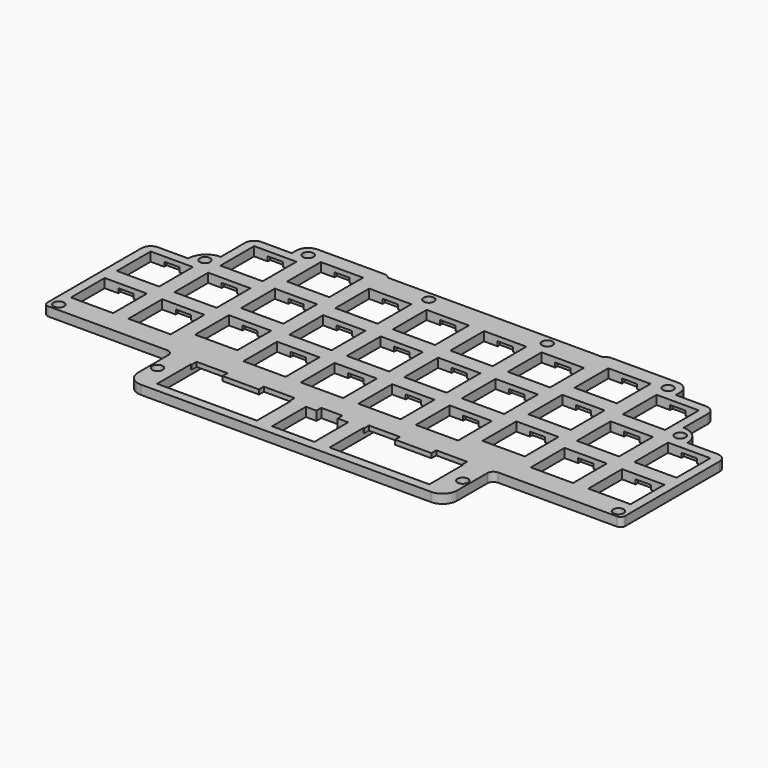
from build123d import *

# Parameters (mm, degrees)
PAD_DEPTH        = 3
SKETCH001_W      = 14
SKETCH001_H      = 14
SKETCH001_W_2    = 7.5
SKETCH001_H_2    = 16
POCKET_DEPTH     = 5
SKETCH003_W      = 5
SKETCH003_H      = 16
SKETCH003_W_2    = 33.05
SKETCH003_H_2    = 22
POCKET001_DEPTH  = 1.5
PAD006_DEPTH     = 3
SHAPEBINDER011_W = 14
SHAPEBINDER011_H = 14
POCKET019_DEPTH  = 5
POCKET020_DEPTH  = 1.5
SKETCH006_R      = 1.75
POCKET021_DEPTH  = 5


with BuildPart() as part:
    # Sketch007 → Pad (new body)
    with BuildSketch(Plane.XY):
        with BuildLine():
            Line((-52.875, -5.2), (-52.875, 11.8125))
            ThreePointArc((-52.875, 11.8125), (-53.460786, 13.226714), (-54.875, 13.8125))
            Line((-54.875, 13.8125), (-88.725, 13.8125))
            ThreePointArc((-88.725, 13.8125), (-89.432107, 13.519607), (-89.725, 12.8125))
            Line((-89.725, 12.8125), (-89.725, 10.8125))
            ThreePointArc((-91.225, 9.3125), (-90.16434, 9.75184), (-89.725, 10.8125))
            Line((-91.225, 9.3125), (-94.225, 9.3125))
            ThreePointArc((-95.725, 10.8125), (-95.28566, 9.75184), (-94.225, 9.3125))
            Line((-95.725, 10.8125), (-95.725, 49.8625))
            ThreePointArc((-92.725, 52.8625), (-94.84632, 51.98382), (-95.725, 49.8625))
            Line((-92.725, 52.8625), (-82.675, 52.8625))
            ThreePointArc((-76.675, 58.8625), (-80.917641, 57.105141), (-82.675, 52.8625))
            Line((-76.675, 58.8625), (-76.675, 68.9125))
            ThreePointArc((-73.675, 71.9125), (-75.79632, 71.03382), (-76.675, 68.9125))
            Line((-73.675, 71.9125), (-63.625, 71.9125))
            Line((-63.625, 73.7225), (-63.625, 71.9125))
            ThreePointArc((-59.625, 77.7225), (-62.453427, 76.550927), (-63.625, 73.7225))
            Line((-59.625, 77.7225), (-37.625, 77.7225))
            ThreePointArc((-35.625, 75.7225), (-36.210786, 77.136714), (-37.625, 77.7225))
            ThreePointArc((-35.625, 75.7225), (-35.039214, 74.308286), (-33.625, 73.7225))
            Line((-33.625, 73.7225), (-24.125, 73.7225))
            Line((-24.125, 73.7225), (-21.125, 76.7225))
            Line((-21.125, 76.7225), (-18.125, 76.7225))
            Line((-18.125, 76.7225), (-15.125, 73.7225))
            Line((-15.125, 73.7225), (15.125, 73.7225))
            Line((15.125, 73.7225), (18.125, 76.7225))
            Line((18.125, 76.7225), (21.125, 76.7225))
            Line((21.125, 76.7225), (24.125, 73.7225))
            Line((24.125, 73.7225), (33.625, 73.7225))
            ThreePointArc((33.625, 73.7225), (35.039214, 74.308286), (35.625, 75.7225))
            ThreePointArc((37.625, 77.7225), (36.210786, 77.136714), (35.625, 75.7225))
            Line((37.625, 77.7225), (59.625, 77.7225))
            ThreePointArc((63.625, 73.7225), (62.453427, 76.550927), (59.625, 77.7225))
            Line((63.625, 73.7225), (63.625, 71.9125))
            Line((63.625, 71.9125), (73.675, 71.9125))
            ThreePointArc((76.675, 68.9125), (75.79632, 71.03382), (73.675, 71.9125))
            Line((76.675, 68.9125), (76.675, 58.8625))
            ThreePointArc((82.675, 52.8625), (80.917641, 57.105141), (76.675, 58.8625))
            Line((82.675, 52.8625), (92.725, 52.8625))
            ThreePointArc((95.725, 49.8625), (94.84632, 51.98382), (92.725, 52.8625))
            Line((95.725, 49.8625), (95.725, 10.8125))
            ThreePointArc((94.225, 9.3125), (95.28566, 9.75184), (95.725, 10.8125))
            Line((94.225, 9.3125), (91.225, 9.3125))
            ThreePointArc((89.725, 10.8125), (90.16434, 9.75184), (91.225, 9.3125))
            Line((89.725, 10.8125), (89.725, 12.8125))
            ThreePointArc((89.725, 12.8125), (89.432107, 13.519607), (88.725, 13.8125))
            Line((88.725, 13.8125), (54.875, 13.8125))
            ThreePointArc((54.875, 13.8125), (53.460786, 13.226714), (52.875, 11.8125))
            Line((52.875, 11.8125), (52.875, -5.2))
            ThreePointArc((48.075, -10), (51.469113, -8.594113), (52.875, -5.2))
            Line((48.075, -10), (-48.075, -10))
            ThreePointArc((-52.875, -5.2), (-51.469113, -8.594113), (-48.075, -10))
        make_face()
    extrude(amount=PAD_DEPTH)

    # Sketch001 → Pocket (cut)
    with BuildSketch(Plane.XY):
        with Locations((-85.725, 42.8625)):
            Rectangle(SKETCH001_W, SKETCH001_H)
        with Locations((-85.725, 23.8125)):
            Rectangle(SKETCH001_W, SKETCH001_H)
        with Locations((-66.675, 23.8125)):
            Rectangle(SKETCH001_W, SKETCH001_H)
        with Locations((-66.675, 42.8625)):
            Rectangle(SKETCH001_W, SKETCH001_H)
        with Locations((-66.675, 61.9125)):
            Rectangle(SKETCH001_W, SKETCH001_H)
        with Locations((-47.625, 65.7225)):
            Rectangle(SKETCH001_W, SKETCH001_H)
        with Locations((-47.625, 46.6725)):
            Rectangle(SKETCH001_W, SKETCH001_H)
        with Locations((-47.625, 27.6225)):
            Rectangle(SKETCH001_W, SKETCH001_H)
        with Locations((-28.575, 23.8125)):
            Rectangle(SKETCH001_W, SKETCH001_H)
        with Locations((-28.575, 42.8625)):
            Rectangle(SKETCH001_W, SKETCH001_H)
        with Locations((-28.575, 61.9125)):
            Rectangle(SKETCH001_W, SKETCH001_H)
        with Locations((-9.525, 61.9125)):
            Rectangle(SKETCH001_W, SKETCH001_H)
        with Locations((9.525, 61.9125)):
            Rectangle(SKETCH001_W, SKETCH001_H)
        with Locations((28.575, 61.9125)):
            Rectangle(SKETCH001_W, SKETCH001_H)
        with Locations((47.625, 65.7225)):
            Rectangle(SKETCH001_W, SKETCH001_H)
        with Locations((66.675, 61.9125)):
            Rectangle(SKETCH001_W, SKETCH001_H)
        with Locations((-9.525, 42.8625)):
            Rectangle(SKETCH001_W, SKETCH001_H)
        with Locations((-9.525, 23.8125)):
            Rectangle(SKETCH001_W, SKETCH001_H)
        with Locations((9.525, 42.8625)):
            Rectangle(SKETCH001_W, SKETCH001_H)
        with Locations((28.575, 42.8625)):
            Rectangle(SKETCH001_W, SKETCH001_H)
        with Locations((9.525, 23.8125)):
            Rectangle(SKETCH001_W, SKETCH001_H)
        with Locations((28.575, 23.8125)):
            Rectangle(SKETCH001_W, SKETCH001_H)
        with Locations((47.625, 46.6725)):
            Rectangle(SKETCH001_W, SKETCH001_H)
        with Locations((66.675, 42.8625)):
            Rectangle(SKETCH001_W, SKETCH001_H)
        with Locations((85.725, 42.8625)):
            Rectangle(SKETCH001_W, SKETCH001_H)
        with Locations((47.625, 27.6225)):
            Rectangle(SKETCH001_W, SKETCH001_H)
        with Locations((66.675, 23.8125)):
            Rectangle(SKETCH001_W, SKETCH001_H)
        with Locations((85.725, 23.8125)):
            Rectangle(SKETCH001_W, SKETCH001_H)
        with Locations((-28.575, 0)):
            Rectangle(SKETCH001_W, SKETCH001_H)
        Rectangle(SKETCH001_W, SKETCH001_H)
        with Locations((28.575, 0)):
            Rectangle(SKETCH001_W, SKETCH001_H)
        with Locations((-40.325, 0)):
            Rectangle(SKETCH001_W_2, SKETCH001_H_2)
        with Locations((-16.825, 0)):
            Rectangle(SKETCH001_W_2, SKETCH001_H_2)
        with Locations((16.825, 0)):
            Rectangle(SKETCH001_W_2, SKETCH001_H_2)
        with Locations((40.325, 0)):
            Rectangle(SKETCH001_W_2, SKETCH001_H_2)
    extrude(amount=POCKET_DEPTH, mode=Mode.SUBTRACT)

    # Sketch003 → Pocket001 (cut)
    with BuildSketch(Plane.XY):
        with Locations((-85.725, 42.8625)):
            Rectangle(SKETCH003_W, SKETCH003_H)
        with Locations((-85.725, 23.8125)):
            Rectangle(SKETCH003_W, SKETCH003_H)
        with Locations((-66.675, 23.8125)):
            Rectangle(SKETCH003_W, SKETCH003_H)
        with Locations((-66.675, 42.8625)):
            Rectangle(SKETCH003_W, SKETCH003_H)
        with Locations((-66.675, 61.9125)):
            Rectangle(SKETCH003_W, SKETCH003_H)
        with Locations((-47.625, 65.7225)):
            Rectangle(SKETCH003_W, SKETCH003_H)
        with Locations((-47.625, 46.6725)):
            Rectangle(SKETCH003_W, SKETCH003_H)
        with Locations((-47.625, 27.6225)):
            Rectangle(SKETCH003_W, SKETCH003_H)
        with Locations((-28.575, 23.8125)):
            Rectangle(SKETCH003_W, SKETCH003_H)
        with Locations((-28.575, 42.8625)):
            Rectangle(SKETCH003_W, SKETCH003_H)
        with Locations((-28.575, 61.9125)):
            Rectangle(SKETCH003_W, SKETCH003_H)
        with Locations((-9.525, 61.9125)):
            Rectangle(SKETCH003_W, SKETCH003_H)
        with Locations((9.525, 61.9125)):
            Rectangle(SKETCH003_W, SKETCH003_H)
        with Locations((28.575, 61.9125)):
            Rectangle(SKETCH003_W, SKETCH003_H)
        with Locations((47.625, 65.7225)):
            Rectangle(SKETCH003_W, SKETCH003_H)
        with Locations((66.675, 61.9125)):
            Rectangle(SKETCH003_W, SKETCH003_H)
        with Locations((-9.525, 42.8625)):
            Rectangle(SKETCH003_W, SKETCH003_H)
        with Locations((-9.525, 23.8125)):
            Rectangle(SKETCH003_W, SKETCH003_H)
        with Locations((9.525, 42.8625)):
            Rectangle(SKETCH003_W, SKETCH003_H)
        with Locations((28.575, 42.8625)):
            Rectangle(SKETCH003_W, SKETCH003_H)
        with Locations((9.525, 23.8125)):
            Rectangle(SKETCH003_W, SKETCH003_H)
        with Locations((28.575, 23.8125)):
            Rectangle(SKETCH003_W, SKETCH003_H)
        with Locations((47.625, 46.6725)):
            Rectangle(SKETCH003_W, SKETCH003_H)
        with Locations((66.675, 42.8625)):
            Rectangle(SKETCH003_W, SKETCH003_H)
        with Locations((85.725, 42.8625)):
            Rectangle(SKETCH003_W, SKETCH003_H)
        with Locations((47.625, 27.6225)):
            Rectangle(SKETCH003_W, SKETCH003_H)
        with Locations((66.675, 23.8125)):
            Rectangle(SKETCH003_W, SKETCH003_H)
        with Locations((85.725, 23.8125)):
            Rectangle(SKETCH003_W, SKETCH003_H)
        Rectangle(SKETCH003_W, SKETCH003_H)
        with Locations((-28.575, 3)):
            Rectangle(SKETCH003_W_2, SKETCH003_H_2)
        with Locations((28.575, 3)):
            Rectangle(SKETCH003_W_2, SKETCH003_H_2)
    extrude(amount=POCKET001_DEPTH, mode=Mode.SUBTRACT)

    # ShapeBinder010 → Pad006 (join)
    with BuildSketch(Plane(origin=(0, 33.86125, 0), x_dir=(0, 1, 0), z_dir=(0, 0, 1))):
        with BuildLine():
            Line((42.86125, 21.125), (42.86125, 35.625))
            ThreePointArc((42.86125, 35.625), (43.597318, 36.506966), (43.86125, 37.625))
            Line((43.86125, 37.625), (43.86125, 59.625))
            ThreePointArc((43.86125, 59.625), (42.689677, 62.453427), (39.86125, 63.625))
            Line((39.86125, 63.625), (38.05125, 63.625))
            Line((38.05125, 63.625), (38.05125, 73.675))
            ThreePointArc((38.05125, 73.675), (37.17257, 75.79632), (35.05125, 76.675))
            Line((35.05125, 76.675), (25.00125, 76.675))
            ThreePointArc((25.00125, 76.675), (23.243891, 80.917641), (19.00125, 82.675))
            Line((19.00125, 82.675), (19.00125, 92.725))
            ThreePointArc((19.00125, 92.725), (18.12257, 94.84632), (16.00125, 95.725))
            Line((16.00125, 95.725), (-23.04875, 95.725))
            ThreePointArc((-23.04875, 95.725), (-24.10941, 95.28566), (-24.54875, 94.225))
            Line((-24.54875, 94.225), (-24.54875, 91.225))
            Line((-24.54875, 91.225), (-24.54875, 54.875))
            ThreePointArc((-24.54875, 54.875), (-25.134536, 53.460786), (-26.54875, 52.875))
            Line((-26.54875, 52.875), (-39.06125, 52.875))
            ThreePointArc((-39.06125, 52.875), (-42.455363, 51.469113), (-43.86125, 48.075))
            Line((-43.86125, 48.075), (-43.86125, -48.075))
            ThreePointArc((-43.86125, -48.075), (-42.455363, -51.469113), (-39.06125, -52.875))
            Line((-39.06125, -52.875), (-26.54875, -52.875))
            ThreePointArc((-26.54875, -52.875), (-25.134536, -53.460786), (-24.54875, -54.875))
            Line((-24.54875, -54.875), (-24.54875, -94.225))
            ThreePointArc((-24.54875, -94.225), (-24.10941, -95.28566), (-23.04875, -95.725))
            Line((-23.04875, -95.725), (16.00125, -95.725))
            ThreePointArc((16.00125, -95.725), (18.12257, -94.84632), (19.00125, -92.725))
            Line((19.00125, -92.725), (19.00125, -82.675))
            ThreePointArc((19.00125, -82.675), (23.243891, -80.917641), (25.00125, -76.675))
            Line((25.00125, -76.675), (35.05125, -76.675))
            ThreePointArc((35.05125, -76.675), (37.17257, -75.79632), (38.05125, -73.675))
            Line((38.05125, -73.675), (38.05125, -63.625))
            Line((38.05125, -63.625), (39.86125, -63.625))
            ThreePointArc((39.86125, -63.625), (42.689677, -62.453427), (43.86125, -59.625))
            Line((43.86125, -59.625), (43.86125, -37.625))
            ThreePointArc((43.86125, -37.625), (43.597318, -36.506966), (42.86125, -35.625))
            Line((42.86125, -35.625), (42.86125, -21.125))
            Line((42.86125, -21.125), (42.86125, 21.125))
        make_face()
    extrude(amount=PAD006_DEPTH)

    # ShapeBinder011 → Pocket019 (cut)
    with BuildSketch(Plane(origin=(0, 32.86125, 0), x_dir=(0, 1, 0), z_dir=(0, 0, 1))):
        with Locations((10.00125, 85.725)):
            Rectangle(SHAPEBINDER011_W, SHAPEBINDER011_H)
        with Locations((-9.04875, 85.725)):
            Rectangle(SHAPEBINDER011_W, SHAPEBINDER011_H)
        with Locations((-9.04875, 66.675)):
            Rectangle(SHAPEBINDER011_W, SHAPEBINDER011_H)
        with Locations((10.00125, 66.675)):
            Rectangle(SHAPEBINDER011_W, SHAPEBINDER011_H)
        with Locations((29.05125, 66.675)):
            Rectangle(SHAPEBINDER011_W, SHAPEBINDER011_H)
        with Locations((32.86125, 47.625)):
            Rectangle(SHAPEBINDER011_W, SHAPEBINDER011_H)
        with Locations((13.81125, 47.625)):
            Rectangle(SHAPEBINDER011_W, SHAPEBINDER011_H)
        with Locations((-5.23875, 47.625)):
            Rectangle(SHAPEBINDER011_W, SHAPEBINDER011_H)
        with Locations((-9.04875, 28.575)):
            Rectangle(SHAPEBINDER011_W, SHAPEBINDER011_H)
        with Locations((10.00125, 28.575)):
            Rectangle(SHAPEBINDER011_W, SHAPEBINDER011_H)
        with Locations((29.05125, 28.575)):
            Rectangle(SHAPEBINDER011_W, SHAPEBINDER011_H)
        with Locations((29.05125, 9.525)):
            Rectangle(SHAPEBINDER011_W, SHAPEBINDER011_H)
        with Locations((29.05125, -9.525)):
            Rectangle(SHAPEBINDER011_W, SHAPEBINDER011_H)
        with Locations((29.05125, -28.575)):
            Rectangle(SHAPEBINDER011_W, SHAPEBINDER011_H)
        with Locations((32.86125, -47.625)):
            Rectangle(SHAPEBINDER011_W, SHAPEBINDER011_H)
        with Locations((29.05125, -66.675)):
            Rectangle(SHAPEBINDER011_W, SHAPEBINDER011_H)
        with Locations((10.00125, 9.525)):
            Rectangle(SHAPEBINDER011_W, SHAPEBINDER011_H)
        with Locations((-9.04875, 9.525)):
            Rectangle(SHAPEBINDER011_W, SHAPEBINDER011_H)
        with Locations((10.00125, -9.525)):
            Rectangle(SHAPEBINDER011_W, SHAPEBINDER011_H)
        with Locations((10.00125, -28.575)):
            Rectangle(SHAPEBINDER011_W, SHAPEBINDER011_H)
        with Locations((-9.04875, -9.525)):
            Rectangle(SHAPEBINDER011_W, SHAPEBINDER011_H)
        with Locations((-9.04875, -28.575)):
            Rectangle(SHAPEBINDER011_W, SHAPEBINDER011_H)
        with Locations((13.81125, -47.625)):
            Rectangle(SHAPEBINDER011_W, SHAPEBINDER011_H)
        with Locations((10.00125, -66.675)):
            Rectangle(SHAPEBINDER011_W, SHAPEBINDER011_H)
        with Locations((10.00125, -85.725)):
            Rectangle(SHAPEBINDER011_W, SHAPEBINDER011_H)
        with Locations((-5.23875, -47.625)):
            Rectangle(SHAPEBINDER011_W, SHAPEBINDER011_H)
        with Locations((-9.04875, -66.675)):
            Rectangle(SHAPEBINDER011_W, SHAPEBINDER011_H)
        with Locations((-9.04875, -85.725)):
            Rectangle(SHAPEBINDER011_W, SHAPEBINDER011_H)
        Polygon((-25.86125, 44.825), (-25.86125, 45.1), (-39.86125, 45.1), (-39.86125, 12.05), (-25.86125, 12.05), (-25.86125, 12.325), (-23.86125, 12.325), (-23.86125, 22.55), (-25.86125, 22.55), (-25.86125, 34.6), (-23.86125, 34.6), (-23.86125, 44.825), align=None)
        Polygon((-25.86125, 3.5), (-25.86125, 7), (-39.86125, 7), (-39.86125, -7), (-25.86125, -7), (-25.86125, -3.5), (-23.86125, -3.5), (-23.86125, 3.5), align=None)
        Polygon((-25.86125, -12.05), (-39.86125, -12.05), (-39.86125, -45.1), (-25.86125, -45.1), (-25.86125, -44.825), (-23.86125, -44.825), (-23.86125, -34.6), (-25.86125, -34.6), (-25.86125, -22.55), (-23.86125, -22.55), (-23.86125, -12.325), (-25.86125, -12.325), align=None)
    extrude(amount=POCKET019_DEPTH, mode=Mode.SUBTRACT)

    # Sketch003 → Pocket020 (cut)
    with BuildSketch(Plane.XY):
        with Locations((-85.725, 42.8625)):
            Rectangle(SKETCH003_W, SKETCH003_H)
        with Locations((-85.725, 23.8125)):
            Rectangle(SKETCH003_W, SKETCH003_H)
        with Locations((-66.675, 23.8125)):
            Rectangle(SKETCH003_W, SKETCH003_H)
        with Locations((-66.675, 42.8625)):
            Rectangle(SKETCH003_W, SKETCH003_H)
        with Locations((-66.675, 61.9125)):
            Rectangle(SKETCH003_W, SKETCH003_H)
        with Locations((-47.625, 65.7225)):
            Rectangle(SKETCH003_W, SKETCH003_H)
        with Locations((-47.625, 46.6725)):
            Rectangle(SKETCH003_W, SKETCH003_H)
        with Locations((-47.625, 27.6225)):
            Rectangle(SKETCH003_W, SKETCH003_H)
        with Locations((-28.575, 23.8125)):
            Rectangle(SKETCH003_W, SKETCH003_H)
        with Locations((-28.575, 42.8625)):
            Rectangle(SKETCH003_W, SKETCH003_H)
        with Locations((-28.575, 61.9125)):
            Rectangle(SKETCH003_W, SKETCH003_H)
        with Locations((-9.525, 61.9125)):
            Rectangle(SKETCH003_W, SKETCH003_H)
        with Locations((9.525, 61.9125)):
            Rectangle(SKETCH003_W, SKETCH003_H)
        with Locations((28.575, 61.9125)):
            Rectangle(SKETCH003_W, SKETCH003_H)
        with Locations((47.625, 65.7225)):
            Rectangle(SKETCH003_W, SKETCH003_H)
        with Locations((66.675, 61.9125)):
            Rectangle(SKETCH003_W, SKETCH003_H)
        with Locations((-9.525, 42.8625)):
            Rectangle(SKETCH003_W, SKETCH003_H)
        with Locations((-9.525, 23.8125)):
            Rectangle(SKETCH003_W, SKETCH003_H)
        with Locations((9.525, 42.8625)):
            Rectangle(SKETCH003_W, SKETCH003_H)
        with Locations((28.575, 42.8625)):
            Rectangle(SKETCH003_W, SKETCH003_H)
        with Locations((9.525, 23.8125)):
            Rectangle(SKETCH003_W, SKETCH003_H)
        with Locations((28.575, 23.8125)):
            Rectangle(SKETCH003_W, SKETCH003_H)
        with Locations((47.625, 46.6725)):
            Rectangle(SKETCH003_W, SKETCH003_H)
        with Locations((66.675, 42.8625)):
            Rectangle(SKETCH003_W, SKETCH003_H)
        with Locations((85.725, 42.8625)):
            Rectangle(SKETCH003_W, SKETCH003_H)
        with Locations((47.625, 27.6225)):
            Rectangle(SKETCH003_W, SKETCH003_H)
        with Locations((66.675, 23.8125)):
            Rectangle(SKETCH003_W, SKETCH003_H)
        with Locations((85.725, 23.8125)):
            Rectangle(SKETCH003_W, SKETCH003_H)
        Rectangle(SKETCH003_W, SKETCH003_H)
        with Locations((-28.575, 3)):
            Rectangle(SKETCH003_W_2, SKETCH003_H_2)
        with Locations((28.575, 3)):
            Rectangle(SKETCH003_W_2, SKETCH003_H_2)
    extrude(amount=POCKET020_DEPTH, mode=Mode.SUBTRACT)

    # Sketch006 → Pocket021 (cut)
    with BuildSketch(Plane.XY):
        with Locations((-92.725, 11.8125)):
            Circle(SKETCH006_R)
        with Locations((-78.725, 54.8625)):
            Circle(SKETCH006_R)
        with Locations((-59.625, 73.7225)):
            Circle(SKETCH006_R)
        with Locations((-50.575, 0)):
            Circle(SKETCH006_R)
        with Locations((50.575, 0)):
            Circle(SKETCH006_R)
        with Locations((92.725, 11.8125)):
            Circle(SKETCH006_R)
        with Locations((78.725, 54.8625)):
            Circle(SKETCH006_R)
        with Locations((59.625, 73.7225)):
            Circle(SKETCH006_R)
        with Locations((-19.625, 73.7225)):
            Circle(SKETCH006_R)
        with Locations((19.625, 73.7225)):
            Circle(SKETCH006_R)
    extrude(amount=POCKET021_DEPTH, mode=Mode.SUBTRACT)


solid = part.part
